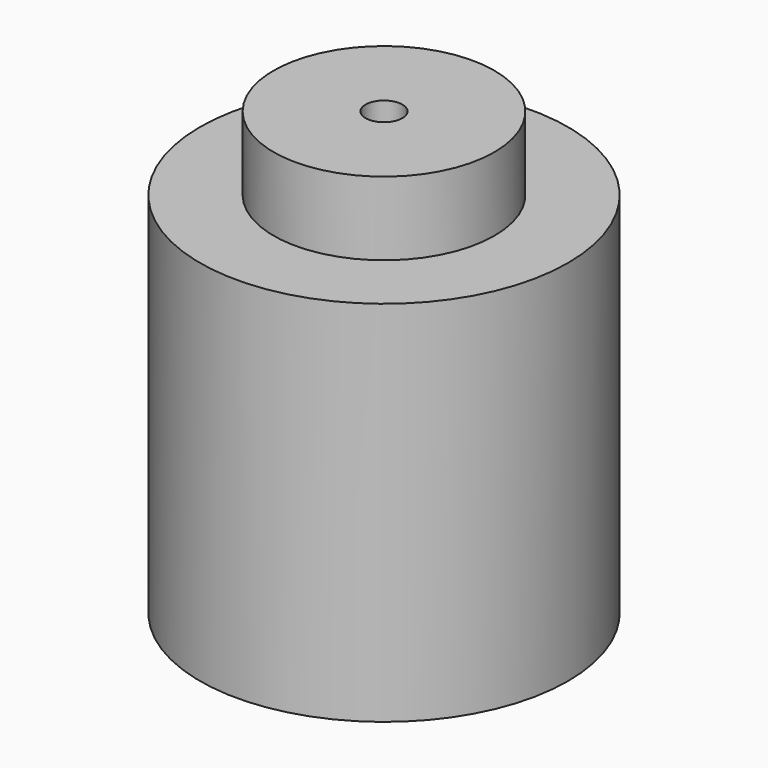
from build123d import *

# Parameters (mm, degrees)
F0_R     = 12.5
F0_R_2   = 7.5
F0_R_3   = 1.25
F1_DEPTH = 25
F2_DEPTH = 20
F3_DEPTH = 5


with BuildPart() as f1:
    # F0 (on Top) → F1 (new body)
    with BuildSketch(Plane.XY):
        Circle(F0_R)
        Circle(F0_R_2, mode=Mode.SUBTRACT)
        Circle(F0_R_2)
        Circle(F0_R_3, mode=Mode.SUBTRACT)
        Circle(F0_R_3)
    extrude(amount=-F1_DEPTH)

    # F0 (on Top) → F2 (cut)
    with BuildSketch(Plane.XY):
        Circle(F0_R_3)
    extrude(amount=-F2_DEPTH, mode=Mode.SUBTRACT)


with BuildPart() as f3:
    # F0 (on Top) → F3 (new body)
    with BuildSketch(Plane.XY):
        Circle(F0_R_2)
        Circle(F0_R_3, mode=Mode.SUBTRACT)
    extrude(amount=F3_DEPTH)


solid = Compound([f1.part, f3.part])
